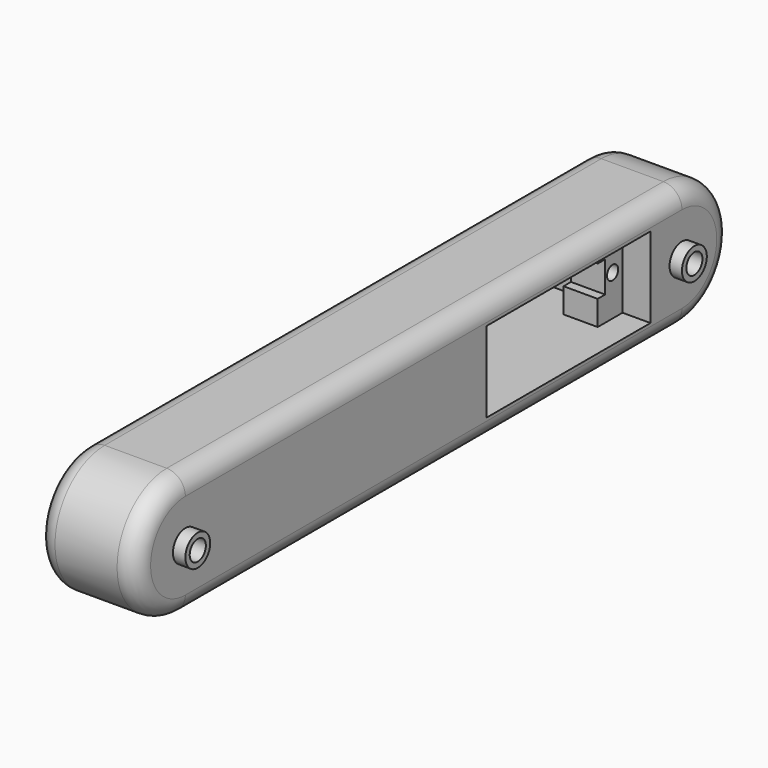
from build123d import *

# Parameters (mm, degrees)
F0_R      = 1.625
F1_DEPTH  = 8
F2_R      = 2.5
F2_R_2    = 1.625
F3_DEPTH  = 2
F4_R      = 3
F7_R      = 1.125
F8_DEPTH  = 16
F9_R      = 1.125
F10_DEPTH = 4.5
F11_R     = 1.125
F12_DEPTH = 6


with BuildPart() as f1:
    # F0 (on Right) → F1 (new body)
    with BuildSketch(Plane.YZ):
        with BuildLine():
            Line((0, -10), (0, 10))
            Line((0, 10), (-50, 10))
            ThreePointArc((-50, 10), (-60, 0), (-50, -10))
            Line((-50, -10), (0, -10))
        make_face()
        with Locations((-50, 0)):
            Circle(F0_R, mode=Mode.SUBTRACT)
    extrude(amount=F1_DEPTH)

    # F2 (on face) → F3 (join)
    with BuildSketch(Plane.YZ.offset(8)):
        with Locations((-50, 0)):
            Circle(F2_R)
        with Locations((-50, 0)):
            Circle(F2_R_2, mode=Mode.SUBTRACT)
    extrude(amount=F3_DEPTH)

    # F4
    f4_edges = [f1.edges().sort_by_distance(p)[0] for p in [
        (8, -25, 10),
    ]]
    fillet(f4_edges, radius=F4_R)

    # F5: F1 across plane


with BuildPart() as f1_1:
    add(f1.part)
    add(f1.part.mirror(Plane.YZ))

    # F6: F1 across plane


with BuildPart() as f1_2:
    add(f1_1.part)
    add(f1_1.part.mirror(Plane.XZ))

    # F7 (on face) → F8 (cut, through all)
    with BuildSketch(Plane.YZ.offset(8)):
        Polygon((15.6563942954, -6.5), (38.6563942954, -6.5), (38.6563942954, -2.5), (40.1563942954, -2.5), (40.1563942954, 2.5), (38.6563942954, 2.5), (38.6563942954, 6.5), (15.6563942954, 6.5), (15.6563942954, 2.5), (14.1563942954, 2.5), (14.1563942954, -2.5), (15.6563942954, -2.5), align=None)
        with Locations((12.6563942954, 0)):
            Circle(F7_R)
        with Locations((41.6563942954, 0)):
            Circle(F7_R)
    extrude(amount=-F8_DEPTH, mode=Mode.SUBTRACT)

    # F9 (on face) → F10 (cut)
    with BuildSketch(Plane.YZ.offset(8)):
        Polygon((15.6563942954, 6.5), (10.6563942954, 6.5), (10.6563942954, -6.5), (15.6563942954, -6.5), (15.6563942954, -2.5), (14.1563942954, -2.5), (14.1563942954, 2.5), (15.6563942954, 2.5), align=None)
        with Locations((12.6563942954, 0)):
            Circle(F9_R, mode=Mode.SUBTRACT)
        Polygon((43.6563942954, 6.5), (38.6563942954, 6.5), (38.6563942954, 2.5), (40.1563942954, 2.5), (40.1563942954, -2.5), (38.6563942954, -2.5), (38.6563942954, -6.5), (43.6563942954, -6.5), align=None)
        with Locations((41.6563942954, 0)):
            Circle(F9_R, mode=Mode.SUBTRACT)
    extrude(amount=-F10_DEPTH, mode=Mode.SUBTRACT)

    # F11 (on face) → F12 (cut)
    with BuildSketch(Plane(origin=(-8, 0, 0), x_dir=(0, -1, 0), z_dir=(-1, 0, 0))):
        Polygon((-43.6563942954, 6.5), (-43.6563942954, -6.5), (-38.6563942954, -6.5), (-38.6563942954, -2.5), (-40.1563942954, -2.5), (-40.1563942954, 2.5), (-38.6563942954, 2.5), (-38.6563942954, 6.5), align=None)
        with Locations((-41.6563942954, 0)):
            Circle(F11_R, mode=Mode.SUBTRACT)
        Polygon((-15.6563942954, -2.5), (-15.6563942954, -6.5), (-10.6563942954, -6.5), (-10.6563942954, 6.5), (-15.6563942954, 6.5), (-15.6563942954, 2.5), (-14.1563942954, 2.5), (-14.1563942954, -2.5), align=None)
        with Locations((-12.6563942954, 0)):
            Circle(F11_R, mode=Mode.SUBTRACT)
    extrude(amount=-F12_DEPTH, mode=Mode.SUBTRACT)


solid = f1_2.part
